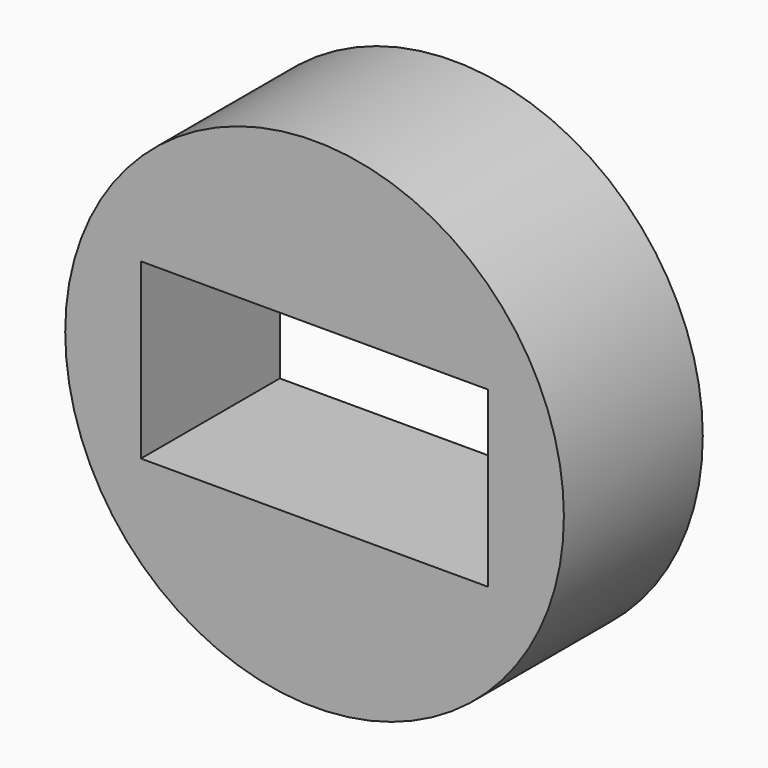
from build123d import *

# Parameters (mm, degrees)
F0_R     = 9.1186
F1_DEPTH = 6.35
F2_W     = 12.7
F2_H     = 6.35
F3_DEPTH = 6.351


with BuildPart() as f1:
    # F0 (on Front) → F1 (new body)
    with BuildSketch(Plane.XZ):
        Circle(F0_R)
    extrude(amount=F1_DEPTH)

    # F2 (on face) → F3 (cut, through all)
    with BuildSketch(Plane.XZ.offset(6.35)):
        Rectangle(F2_W, F2_H)
    extrude(amount=-F3_DEPTH, mode=Mode.SUBTRACT)


solid = f1.part
